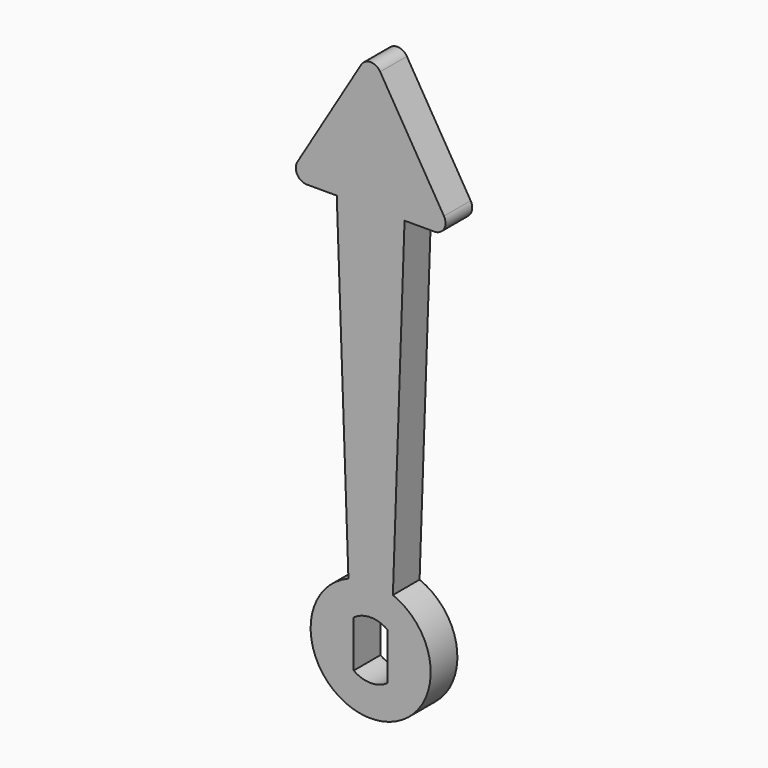
from build123d import *

# Parameters (mm, degrees)
F0_R     = 5.4
F1_DEPTH = 1.5
F3_DEPTH = 1.5
F5_DEPTH = 1.5
F6_R     = 1


with BuildPart() as f1:
    # F0 (on Front) → F1 (new body, symmetric)
    with BuildSketch(Plane.XZ):
        Circle(F0_R)
        with BuildLine():
            ThreePointArc((1.525, 2.105796), (2.315707, 1.182159), (2.6, 0))
            ThreePointArc((2.6, 0), (2.315707, -1.182159), (1.525, -2.105796))
            ThreePointArc((1.525, -2.105796), (0, -2.6), (-1.525, -2.105796))
            ThreePointArc((-1.525, -2.105796), (-2.6, 0), (-1.525, 2.105796))
            ThreePointArc((-1.525, 2.105796), (0, 2.6), (1.525, 2.105796))
        make_face(mode=Mode.SUBTRACT)
        with BuildLine():
            Line((-1.525, -2.105796), (-1.525, 2.105796))
            ThreePointArc((-1.525, 2.105796), (-2.6, 0), (-1.525, -2.105796))
        make_face()
        with BuildLine():
            ThreePointArc((1.525, -2.105796), (2.315707, -1.182159), (2.6, 0))
            ThreePointArc((2.6, 0), (2.315707, 1.182159), (1.525, 2.105796))
            Line((1.525, 2.105796), (1.525, -2.105796))
        make_face()
    extrude(amount=F1_DEPTH, both=True)

    # F2 (on Front) → F3 (join, symmetric)
    with BuildSketch(Plane.XZ):
        Polygon((3.047065, 35), (0, 35), (-3.047065, 35), (-2, 5.015974), (0, 5.015974), (2, 5.015974), align=None)
    extrude(amount=F3_DEPTH, both=True)

    # F4 (on Front) → F5 (join, symmetric)
    with BuildSketch(Plane.XZ):
        Polygon((0, 47.5), (-7.5, 35), (7.5, 35), align=None)
    extrude(amount=F5_DEPTH, both=True)

    # F6
    f6_edges = [f1.edges().sort_by_distance(p)[0] for p in [
        (-7.5, 0, 35),
        (0, 0, 47.5),
        (7.5, 0, 35),
    ]]
    fillet(f6_edges, radius=F6_R)


solid = f1.part
